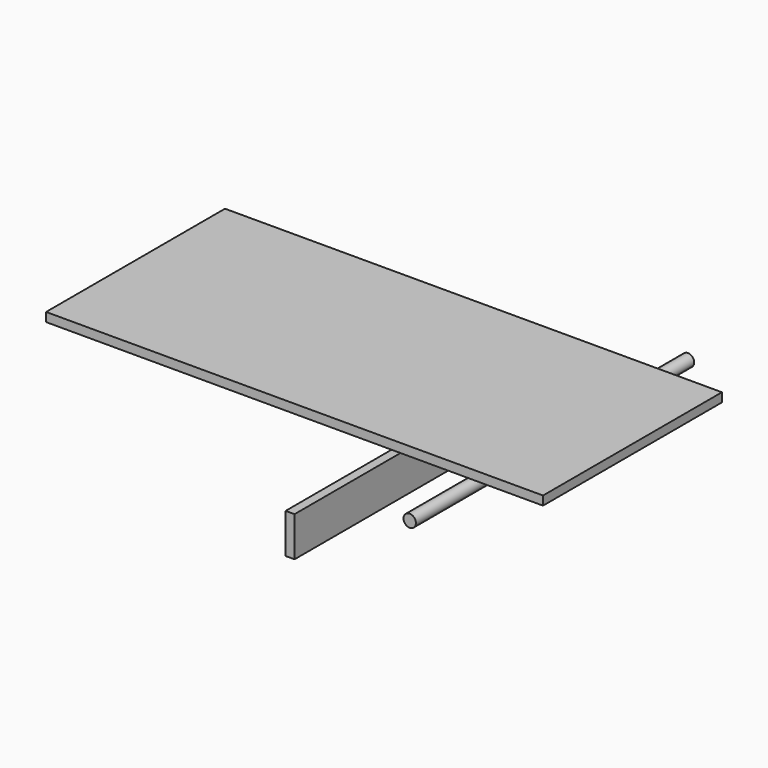
from build123d import *

# Parameters (mm, degrees)
F0_W     = 1000
F0_H     = 18
F1_DEPTH = 450
F2_W     = 18
F2_H     = 80
F3_DEPTH = 450
F4_R     = 12.5
F5_DEPTH = 700


with BuildPart() as f1:
    # F0 (on Front) → F1 (new body)
    with BuildSketch(Plane.XZ):
        Rectangle(F0_W, F0_H)
    extrude(amount=-F1_DEPTH)


with BuildPart() as f3:
    # F2 (on Front) → F3 (new body)
    with BuildSketch(Plane.XZ):
        with Locations((-9, -226.647379)):
            Rectangle(F2_W, F2_H)
    extrude(amount=-F3_DEPTH)


with BuildPart() as f5:
    # F4 (on Front) → F5 (new body)
    with BuildSketch(Plane.XZ):
        with Locations((231.64618, -122.92856)):
            Circle(F4_R)
    extrude(amount=-F5_DEPTH)


solid = Compound([f1.part, f3.part, f5.part])
